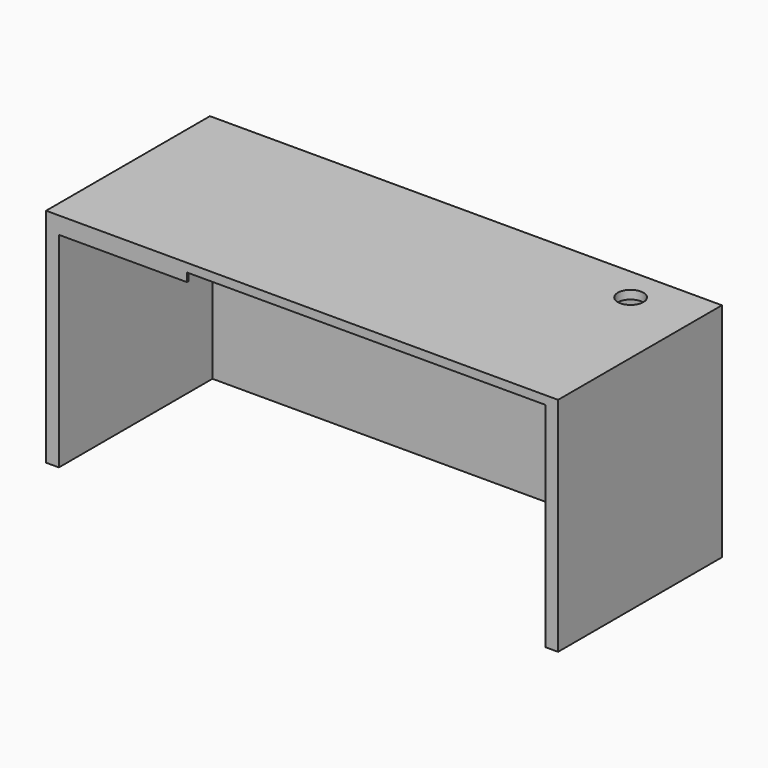
from build123d import *

# Parameters (mm, degrees)
F1_DEPTH = 25.4
F0_W     = 1295.4
F0_H     = 38.1
F0_W_2   = 152.4
F2_DEPTH = 660.4
F0_W_3   = 381
F0_H_2   = 6.35
F3_DEPTH = 50.8


with BuildPart() as f1:
    # F0 (on Top) → F1 (new body)
    with BuildSketch(Plane.XY):
        with BuildLine():
            Line((722.1747212052, 300.0245658736), (569.7747212052, 300.0245658736))
            Line((569.7747212052, 300.0245658736), (569.7747212052, 274.6245658736))
            ThreePointArc((569.7747212052, 274.6245658736), (596.7154895684, 263.4653342368), (607.8747212052, 236.5245658736))
            Line((607.8747212052, 236.5245658736), (722.1747212052, 236.5245658736))
            Line((722.1747212052, 236.5245658736), (722.1747212052, 300.0245658736))
        make_face()
        with BuildLine():
            Line((569.7747212052, 300.0245658736), (-725.6252787948, 300.0245658736))
            Line((-725.6252787948, 300.0245658736), (-725.6252787948, -265.1254341264))
            Line((-725.6252787948, -265.1254341264), (-344.6252787948, -265.1254341264))
            Line((-344.6252787948, -265.1254341264), (-344.6252787948, -271.4754341264))
            Line((-344.6252787948, -271.4754341264), (722.1747212052, -271.4754341264))
            Line((722.1747212052, -271.4754341264), (722.1747212052, 236.5245658736))
            Line((722.1747212052, 236.5245658736), (607.8747212052, 236.5245658736))
            ThreePointArc((607.8747212052, 236.5245658736), (542.833952842, 209.5837975104), (569.7747212052, 274.6245658736))
            Line((569.7747212052, 274.6245658736), (569.7747212052, 300.0245658736))
        make_face()
    extrude(amount=-F1_DEPTH)

    # F0 (on Top) → F2 (join)
    with BuildSketch(Plane.XY):
        with Locations((-77.9252787948, 319.0745658736)):
            Rectangle(F0_W, F0_H)
        with Locations((645.9747212052, 319.0745658736)):
            Rectangle(F0_W_2, F0_H)
        Polygon((760.2747212052, 338.1245658736), (722.1747212052, 338.1245658736), (722.1747212052, 300.0245658736), (722.1747212052, 236.5245658736), (722.1747212052, -271.4754341264), (760.2747212052, -271.4754341264), align=None)
        Polygon((-725.6252787948, 338.1245658736), (-763.7252787948, 338.1245658736), (-763.7252787948, -271.4754341264), (-725.6252787948, -271.4754341264), (-725.6252787948, -265.1254341264), (-725.6252787948, 300.0245658736), align=None)
    extrude(amount=-F2_DEPTH)

    # F0 (on Top) → F3 (join)
    with BuildSketch(Plane.XY):
        with Locations((-535.1252787948, -268.3004341264)):
            Rectangle(F0_W_3, F0_H_2)
    extrude(amount=-F3_DEPTH)


solid = f1.part
